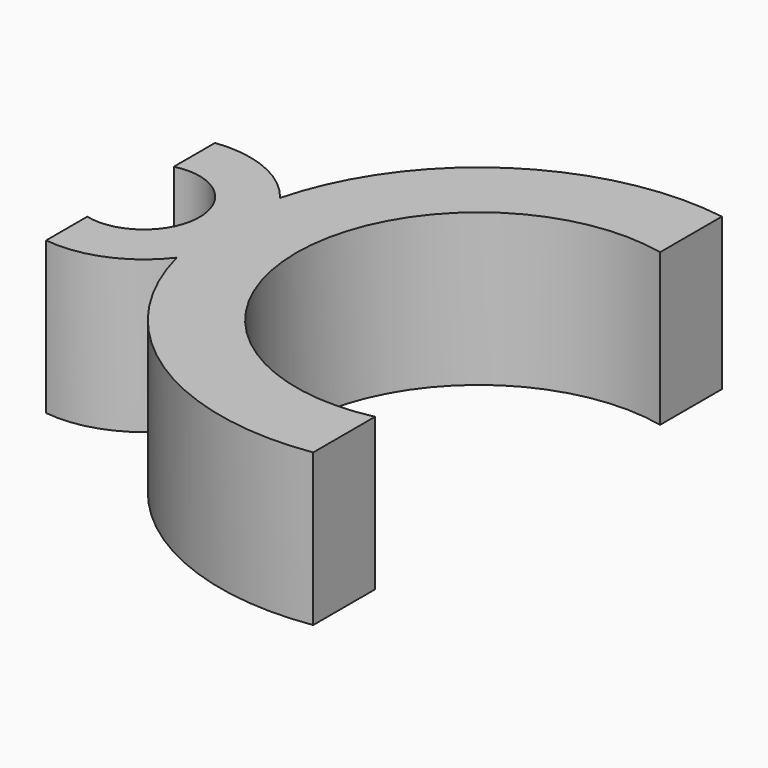
from build123d import *

# Parameters (mm, degrees)
F1_DEPTH = 3


with BuildPart() as f1:
    # F0 (on Top) → F1 (new body)
    with BuildSketch(Plane.XY):
        with BuildLine():
            ThreePointArc((-3.568038, -7.869875), (-7.935237, -4.352574), (-3.568038, -0.835273))
            Line((-3.568038, -0.835273), (-3.568038, 0.689391))
            ThreePointArc((-3.568038, 0.689391), (-7.146301, -0.097234), (-9.273883, -3.079873))
            ThreePointArc((-9.273883, -3.079873), (-10.131319, -2.418957), (-11.20402, -2.272952))
            Line((-11.20402, -2.272952), (-11.20402, -3.288286))
            ThreePointArc((-11.20402, -3.288286), (-9.841317, -4.356456), (-11.20402, -5.424626))
            Line((-11.20402, -5.424626), (-11.20402, -6.439959))
            ThreePointArc((-11.20402, -6.439959), (-10.13018, -6.293478), (-9.272384, -5.631078))
            ThreePointArc((-9.272384, -5.631078), (-7.1438, -8.609565), (-3.568038, -9.394538))
            Line((-3.568038, -9.394538), (-3.568038, -7.869875))
        make_face()
    extrude(amount=F1_DEPTH)


solid = f1.part
